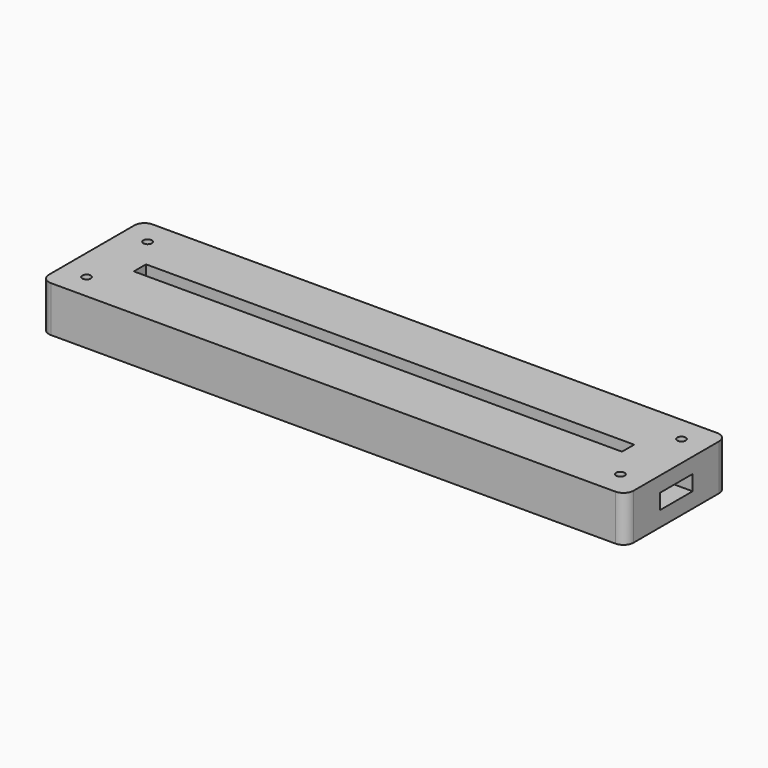
from build123d import *

# Parameters (mm, degrees)
SKETCH_W              = 115
SKETCH_H              = 25
PAD_DEPTH             = 3
PAD001_DEPTH          = 3
SKETCH002_W           = 115
SKETCH002_H           = 25
SKETCH002_W_2         = 96
SKETCH002_H_2         = 3
PAD002_DEPTH          = 3
SKETCH003_R           = 0.825
POCKET_DEPTH          = 245.060315
POLARPATTERN_COUNT    = 2
POLARPATTERN001_COUNT = 2
POLARPATTERN002_COUNT = 2
FILLET_R              = 2
SKETCH004_R           = 12.75
POCKET001_DEPTH       = 3


with BuildPart() as part:
    # Sketch → Pad (new body)
    with BuildSketch(Plane.XY):
        Rectangle(SKETCH_W, SKETCH_H)
    extrude(amount=PAD_DEPTH)

    # Sketch001 (on Face6 of Pad) → Pad001 (join)
    with BuildSketch(Plane.XY.offset(3)):
        Polygon((-57.5, 12.5), (57.5, 12.5), (57.5, 4), (50, 4), (50, 5), (-50, 5), (-50, 4), (-57.5, 4), align=None)
        Polygon((-57.5, -12.5), (57.5, -12.5), (57.5, -4), (50, -4), (50, -5), (-50, -5), (-50, -4), (-57.5, -4), align=None)
    extrude(amount=PAD001_DEPTH)

    # Sketch002 (on Face12 of Pad001) → Pad002 (join)
    with BuildSketch(Plane.XY.offset(6)):
        Rectangle(SKETCH002_W, SKETCH002_H)
        Rectangle(SKETCH002_W_2, SKETCH002_H_2, mode=Mode.SUBTRACT)
    extrude(amount=PAD002_DEPTH)

    # Sketch003 (on Face26 of Pad002) → Pocket (cut, through all)
    with BuildSketch(Plane.XY.offset(9)):
        with Locations((-52.5, 7.5)):
            Circle(SKETCH003_R)
    pocket = extrude(amount=-POCKET_DEPTH, mode=Mode.SUBTRACT)

    # PolarPattern: Pocket ×2 about axis
    polarpattern_axis = Axis((0, 0, 0), (0, 1, 0))
    for i in range(1, POLARPATTERN_COUNT):
        add(pocket.rotate(polarpattern_axis, i * 360 / POLARPATTERN_COUNT), mode=Mode.SUBTRACT)

    # PolarPattern001: Pocket ×2 about axis
    polarpattern001_axis = Axis((0, 0, 0), (1, 0, 0))
    for i in range(1, POLARPATTERN001_COUNT):
        add(pocket.rotate(polarpattern001_axis, i * 360 / POLARPATTERN001_COUNT), mode=Mode.SUBTRACT)

    # PolarPattern002: Pocket ×2 about axis
    polarpattern002_axis = Axis((0, 0, 9), (0, 0, 1))
    for i in range(1, POLARPATTERN002_COUNT):
        add(pocket.rotate(polarpattern002_axis, i * 360 / POLARPATTERN002_COUNT), mode=Mode.SUBTRACT)

    # Fillet
    fillet_edges = [part.edges().sort_by_distance(p)[0] for p in [
        (57.5, 12.5, 7.5),
        (57.5, 12.5, 4.5),
        (57.5, 12.5, 1.5),
        (57.5, -12.5, 7.5),
        (-57.5, 12.5, 7.5),
        (-57.5, -12.5, 7.5),
    ]]
    fillet(fillet_edges, radius=FILLET_R)

    # Sketch004 (on Face2 of Fillet) → Pocket001 (cut)
    with BuildSketch(Plane(origin=(0, 0, 0), x_dir=(1, 0, 0), z_dir=(0, 0, -1))):
        with Locations((0, -4.31247)):
            Circle(SKETCH004_R)
    extrude(amount=-POCKET001_DEPTH, mode=Mode.SUBTRACT)


solid = part.part
